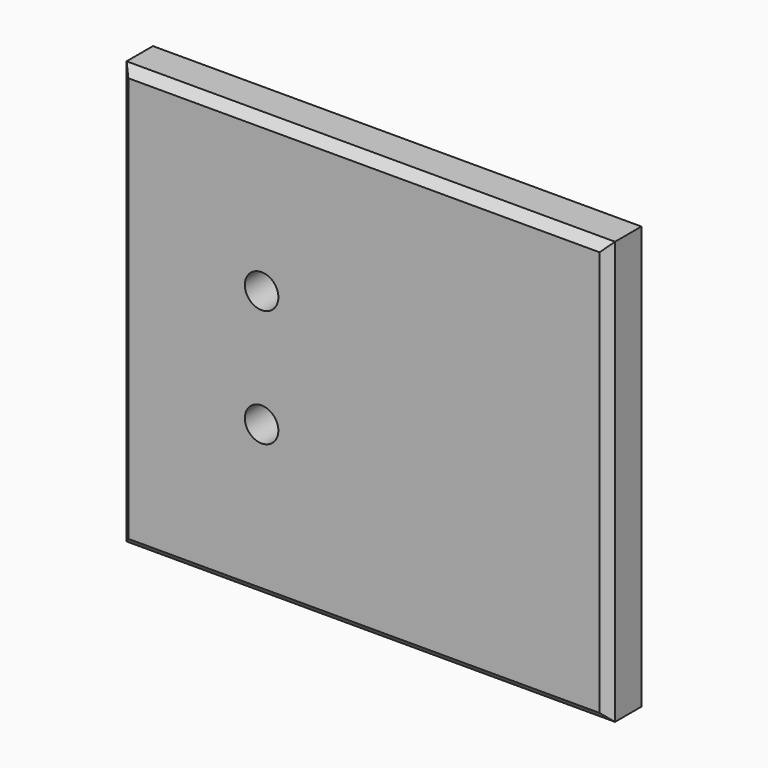
from build123d import *

# Parameters (mm, degrees)
F0_W     = 56.8
F0_H     = 49.16
F1_DEPTH = 4.83
F2_SIZE  = 1
F4_DEPTH = 5.08
F5_R     = 1.95
F6_DEPTH = 25
F5_W     = 14.2
F5_H     = 13.64
F7_DEPTH = 5.06


with BuildPart() as f1:
    # F0 (on Front) → F1 (new body)
    with BuildSketch(Plane.XZ):
        Rectangle(F0_W, F0_H)
    extrude(amount=F1_DEPTH)

    # F2
    f2_edges = [f1.edges().sort_by_distance(p)[0] for p in [
        (28.4, -4.83, 0),
        (0, -4.83, 24.58),
        (-28.4, -4.83, 0),
        (0, -4.83, -24.58),
    ]]
    chamfer(f2_edges, length=F2_SIZE)

    # F3 (on face) → F4 (join)
    with BuildSketch(Plane(origin=(0, 0, 0), x_dir=(-1, 0, 0), z_dir=(0, 1, 0))):
        Polygon((23.75, 17.29), (17.64, 17.29), (17.64, 14.84), (21.3, 14.84), (21.3, 11.18), (23.75, 11.18), align=None)
        Polygon((-18.37, -10.69), (-20.82, -10.69), (-20.82, -16.8), (-14.71, -16.8), (-14.71, -14.35), (-18.37, -14.35), align=None)
        Polygon((23.75, -16.8), (23.75, -10.69), (21.3, -10.69), (21.3, -14.35), (17.64, -14.35), (17.64, -16.8), align=None)
        Polygon((-14.71, 17.29), (-20.82, 17.29), (-20.82, 11.18), (-18.37, 11.18), (-18.37, 14.84), (-14.71, 14.84), align=None)
    extrude(amount=F4_DEPTH)

    # F5 (on face) → F6 (cut)
    with BuildSketch(Plane(origin=(0, 0, 0), x_dir=(-1, 0, 0), z_dir=(0, 1, 0))):
        with Locations((11.9, 6.82)):
            Circle(F5_R)
        with Locations((11.9, -6.82)):
            Circle(F5_R)
    extrude(amount=-F6_DEPTH, mode=Mode.SUBTRACT)

    # F5 (on face) → F7 (join)
    with BuildSketch(Plane(origin=(0, 0, 0), x_dir=(-1, 0, 0), z_dir=(0, 1, 0))):
        Polygon((19, 0.28), (19, 13.92), (4.8, 13.92), (4.8, 0.28), (4.8, -0.28), (19, -0.28), align=None)
        Polygon((13.957583, 10.278321), (15.923786, 6.767241), (13.866202, 3.30892), (9.842417, 3.361679), (7.876214, 6.872759), (9.933798, 10.33108), align=None, mode=Mode.SUBTRACT)
        with Locations((11.9, -7.1)):
            Rectangle(F5_W, F5_H)
        Polygon((9.933798, -10.33108), (7.876214, -6.872759), (9.842417, -3.361679), (13.866202, -3.30892), (15.923786, -6.767241), (13.957583, -10.278321), align=None, mode=Mode.SUBTRACT)
    extrude(amount=F7_DEPTH)


solid = f1.part
